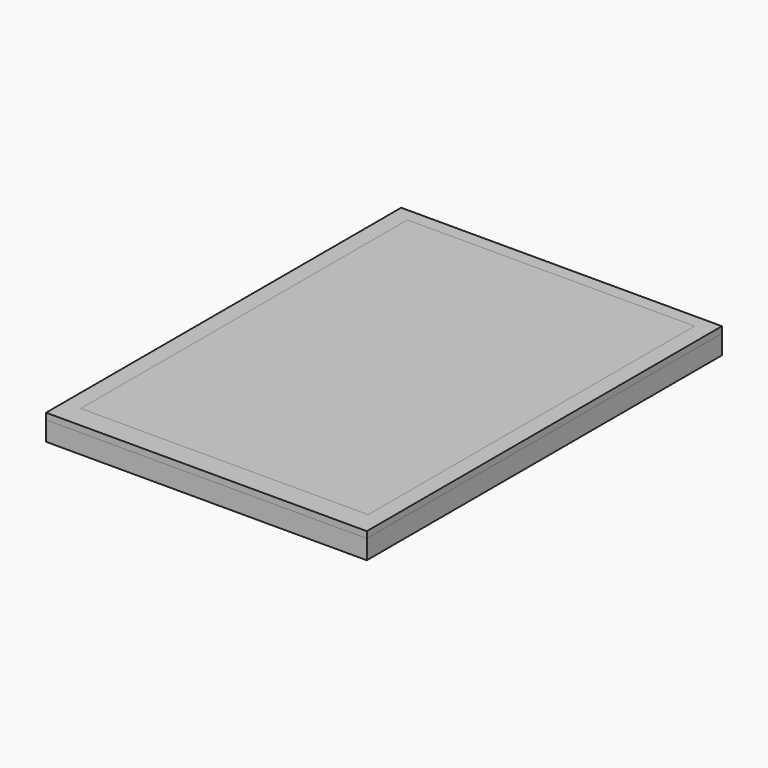
from build123d import *

# Parameters (mm, degrees)
F0_W     = 50
F0_H     = 69.2
F1_DEPTH = 3
F2_W     = 50
F2_H     = 69.2
F2_W_2   = 44.8
F2_H_2   = 63.65
F3_DEPTH = 1
F4_W     = 44.8
F4_H     = 63.65
F5_DEPTH = 1


with BuildPart() as f1:
    # F0 (on Top) → F1 (new body)
    with BuildSketch(Plane.XY):
        Rectangle(F0_W, F0_H)
    extrude(amount=F1_DEPTH)


with BuildPart() as f3:
    # F2 (on face) → F3 (new body)
    with BuildSketch(Plane.XY.offset(3)):
        Rectangle(F2_W, F2_H)
        with Locations((0, 0.725)):
            Rectangle(F2_W_2, F2_H_2, mode=Mode.SUBTRACT)
    extrude(amount=F3_DEPTH)


with BuildPart() as f5:
    # F4 (on face) → F5 (new body)
    with BuildSketch(Plane.XY.offset(4)):
        with Locations((0, 0.725)):
            Rectangle(F4_W, F4_H)
    extrude(amount=-F5_DEPTH)


solid = Compound([f1.part, f3.part, f5.part])
